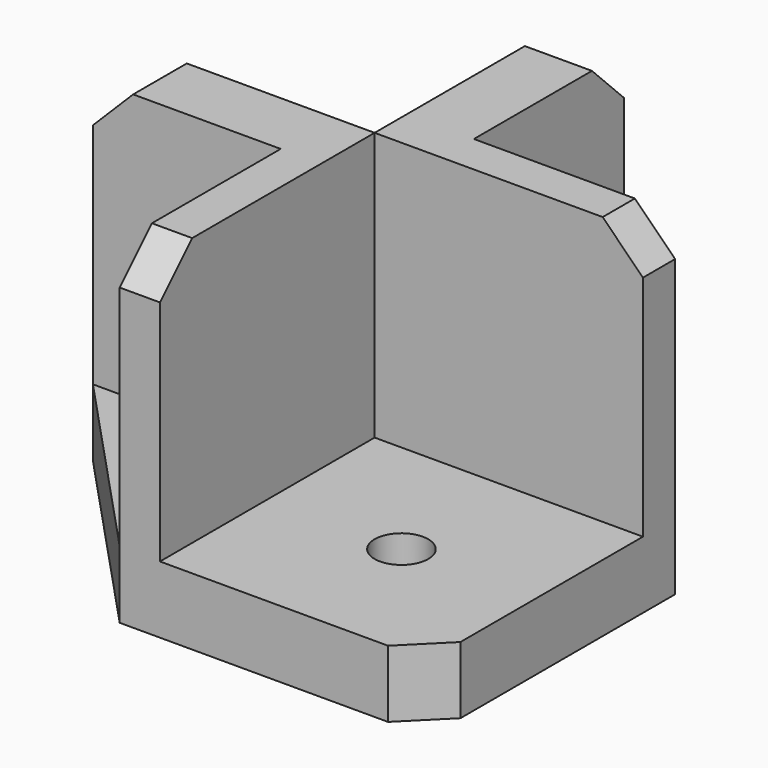
from build123d import *

# Parameters (mm, degrees)
CYLINDER001_R     = 0.5
CYLINDER001_DEPTH = 10
CYLINDER003_R     = 2
CYLINDER003_DEPTH = 10
BOX001_W          = 5
BOX001_H          = 17
BOX001_DEPTH      = 25
CHAMFER008_SIZE   = 3
BOX005_W          = 17
BOX005_H          = 20
BOX005_DEPTH      = 5
CHAMFER005_SIZE2  = 14
CHAMFER005_SIZE   = 15
BOX003_W          = 3
BOX003_H          = 20
BOX003_DEPTH      = 25
CHAMFER004_SIZE   = 3
CYLINDER_R        = 2
CYLINDER_DEPTH    = 10
BOX004_W          = 20
BOX004_H          = 20
BOX004_DEPTH      = 5
CHAMFER_SIZE      = 3
BOX006_W          = 20
BOX006_H          = 17
BOX006_DEPTH      = 5
CHAMFER006_SIZE2  = 15
CHAMFER006_SIZE   = 14
BOX_W             = 20
BOX_H             = 3
BOX_DEPTH         = 25
CHAMFER003_SIZE   = 3
CYLINDER002_R     = 0.5
CYLINDER002_DEPTH = 10
CYLINDER004_R     = 2
CYLINDER004_DEPTH = 10
BOX002_W          = 17
BOX002_H          = 5
BOX002_DEPTH      = 25
CHAMFER007_SIZE   = 3


with BuildPart() as cylinder001:
    # Cylinder001 → Cylinder001 (new body)
    with BuildSketch(Plane(origin=(10, 10, 16.7), x_dir=(0, 1, 0), z_dir=(-1, 0, 0))):
        Circle(CYLINDER001_R)
    extrude(amount=CYLINDER001_DEPTH)


with BuildPart() as cylinder003:
    # Cylinder003 → Cylinder003 (new body)
    with BuildSketch(Plane(origin=(10, 10, 15), x_dir=(0, 1, 0), z_dir=(-1, 0, 0))):
        Circle(CYLINDER003_R)
    extrude(amount=CYLINDER003_DEPTH)


with BuildPart() as cut003:
    # Box001 → Box001 (new body)
    with BuildSketch(Plane.XY):
        with Locations((2.5, 8.5)):
            Rectangle(BOX001_W, BOX001_H)
    extrude(amount=BOX001_DEPTH)

    # Cut002: cut Cylinder003
    add(cylinder003.part, mode=Mode.SUBTRACT)

    # Chamfer008
    chamfer008_edges = [cut003.edges().sort_by_distance(p)[0] for p in [
        (2.5, 17, 25),
    ]]
    chamfer(chamfer008_edges, length=CHAMFER008_SIZE)

    # Cut003: cut Cylinder001
    add(cylinder001.part, mode=Mode.SUBTRACT)


with BuildPart() as chamfer005:
    # Box005 → Box005 (new body)
    with BuildSketch(Plane(origin=(-17, -20, 0), x_dir=(1, 0, 0), z_dir=(0, 0, 1))):
        with Locations((8.5, 10)):
            Rectangle(BOX005_W, BOX005_H)
    extrude(amount=BOX005_DEPTH)

    # Chamfer005
    chamfer005_edges = [chamfer005.edges().sort_by_distance(p)[0] for p in [
        (-17, -20, 2.5),
    ]]
    chamfer005_side = chamfer005.faces().sort_by_distance((-17, -10, 2.5))[0]
    chamfer(chamfer005_edges, length=CHAMFER005_SIZE, length2=CHAMFER005_SIZE2, reference=chamfer005_side)


with BuildPart() as chamfer004:
    # Box003 → Box003 (new body)
    with BuildSketch(Plane(origin=(-3, -20, 0), x_dir=(1, 0, 0), z_dir=(0, 0, 1))):
        with Locations((1.5, 10)):
            Rectangle(BOX003_W, BOX003_H)
    extrude(amount=BOX003_DEPTH)

    # Chamfer004
    chamfer004_edges = [chamfer004.edges().sort_by_distance(p)[0] for p in [
        (-1.5, -20, 25),
    ]]
    chamfer(chamfer004_edges, length=CHAMFER004_SIZE)


with BuildPart() as cylinder:
    # Cylinder → Cylinder (new body)
    with BuildSketch(Plane(origin=(10, -10, 0), x_dir=(1, 0, 0), z_dir=(0, 0, 1))):
        Circle(CYLINDER_R)
    extrude(amount=CYLINDER_DEPTH)


with BuildPart() as cut:
    # Box004 → Box004 (new body)
    with BuildSketch(Plane(origin=(0, -20, 0), x_dir=(1, 0, 0), z_dir=(0, 0, 1))):
        with Locations((10, 10)):
            Rectangle(BOX004_W, BOX004_H)
    extrude(amount=BOX004_DEPTH)

    # Chamfer
    chamfer_edges = [cut.edges().sort_by_distance(p)[0] for p in [
        (20, -20, 2.5),
    ]]
    chamfer(chamfer_edges, length=CHAMFER_SIZE)

    # Cut: cut Cylinder
    add(cylinder.part, mode=Mode.SUBTRACT)


with BuildPart() as chamfer006:
    # Box006 → Box006 (new body)
    with BuildSketch(Plane.XY):
        with Locations((10, 8.5)):
            Rectangle(BOX006_W, BOX006_H)
    extrude(amount=BOX006_DEPTH)

    # Chamfer006
    chamfer006_edges = [chamfer006.edges().sort_by_distance(p)[0] for p in [
        (20, 17, 2.5),
    ]]
    chamfer006_side = chamfer006.faces().sort_by_distance((20, 8.5, 2.5))[0]
    chamfer(chamfer006_edges, length=CHAMFER006_SIZE, length2=CHAMFER006_SIZE2, reference=chamfer006_side)


with BuildPart() as chamfer003:
    # Box → Box (new body)
    with BuildSketch(Plane.XY):
        with Locations((10, 1.5)):
            Rectangle(BOX_W, BOX_H)
    extrude(amount=BOX_DEPTH)

    # Chamfer003
    chamfer003_edges = [chamfer003.edges().sort_by_distance(p)[0] for p in [
        (20, 1.5, 25),
    ]]
    chamfer(chamfer003_edges, length=CHAMFER003_SIZE)


with BuildPart() as cylinder002:
    # Cylinder002 → Cylinder002 (new body)
    with BuildSketch(Plane(origin=(-10, 5, 16.7), x_dir=(-1, 0, 0), z_dir=(0, -1, 0))):
        Circle(CYLINDER002_R)
    extrude(amount=CYLINDER002_DEPTH)


with BuildPart() as cylinder004:
    # Cylinder004 → Cylinder004 (new body)
    with BuildSketch(Plane(origin=(-10, 5, 15), x_dir=(-1, 0, 0), z_dir=(0, -1, 0))):
        Circle(CYLINDER004_R)
    extrude(amount=CYLINDER004_DEPTH)


with BuildPart() as fusion:
    # Box002 → Box002 (new body)
    with BuildSketch(Plane(origin=(-17, -5, 0), x_dir=(1, 0, 0), z_dir=(0, 0, 1))):
        with Locations((8.5, 2.5)):
            Rectangle(BOX002_W, BOX002_H)
    extrude(amount=BOX002_DEPTH)

    # Cut001: cut Cylinder004
    add(cylinder004.part, mode=Mode.SUBTRACT)

    # Chamfer007
    chamfer007_edges = [fusion.edges().sort_by_distance(p)[0] for p in [
        (-17, -2.5, 25),
    ]]
    chamfer(chamfer007_edges, length=CHAMFER007_SIZE)

    # Cut004: cut Cylinder002
    add(cylinder002.part, mode=Mode.SUBTRACT)

    # Fusion: union Cut003, Chamfer005, Chamfer004, Cut, Chamfer006, Chamfer003
    add(cut003.part)
    add(chamfer005.part)
    add(chamfer004.part)
    add(cut.part)
    add(chamfer006.part)
    add(chamfer003.part)


solid = fusion.part
